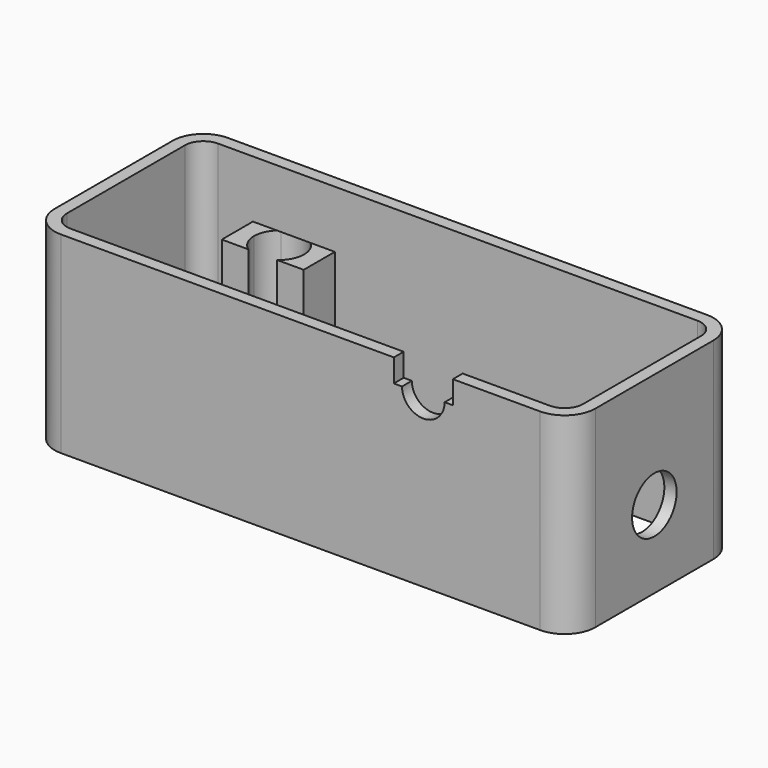
from build123d import *

# Parameters (mm, degrees)
PAD_DEPTH       = 23.5
SKETCH014_W     = 8
SKETCH014_H     = 0.8
POCKET001_DEPTH = 0.7
SKETCH015_W     = 5.25
SKETCH015_H     = 1
POCKET002_DEPTH = 0.5
SKETCH020_R     = 3.4
POCKET005_DEPTH = 1.5
POCKET006_DEPTH = 1.5
SKETCH025_R     = 3.1
POCKET008_DEPTH = 16.5
PAD015_DEPTH    = 15.75


with BuildPart() as part:
    # Sketch → Pad (new body)
    with BuildSketch(Plane.XY.offset(6)):
        with BuildLine():
            Line((-29.25, 12.75), (29.25, 12.75))
            ThreePointArc((33, 9), (31.9016504294, 11.6516504294), (29.25, 12.75))
            Line((33, 9), (33, -9))
            ThreePointArc((29.25, -12.75), (31.9016504295, -11.6516504294), (33, -9))
            Line((29.25, -12.75), (-29.25, -12.75))
            ThreePointArc((-33, -9), (-31.9016504294, -11.6516504295), (-29.25, -12.75))
            Line((-33, -9), (-33, 9))
            ThreePointArc((-29.25, 12.75), (-31.9016504294, 11.6516504294), (-33, 9))
        make_face()
        with BuildLine():
            Line((-29.25, 11.25), (29.25, 11.25))
            ThreePointArc((31.5, 9), (30.8409902577, 10.5909902577), (29.25, 11.25))
            Line((31.5, 9), (31.5, -9))
            ThreePointArc((29.25, -11.25), (30.8409902577, -10.5909902577), (31.5, -9))
            Line((29.25, -11.25), (-29.25, -11.25))
            ThreePointArc((-31.5, -9), (-30.8409902577, -10.5909902577), (-29.25, -11.25))
            Line((-31.5, -9), (-31.5, 9))
            ThreePointArc((-29.25, 11.25), (-30.8409902577, 10.5909902577), (-31.5, 9))
        make_face(mode=Mode.SUBTRACT)
    extrude(amount=-PAD_DEPTH)

    # Sketch014 → Pocket001 (cut)
    with BuildSketch(Plane(origin=(0, -11.25, 6), x_dir=(-1, 0, 0), z_dir=(0, 1, 0))):
        with Locations((0, -21.9)):
            Rectangle(SKETCH014_W, SKETCH014_H)
    extrude(amount=-POCKET001_DEPTH, mode=Mode.SUBTRACT)

    # Sketch015 → Pocket002 (cut)
    with BuildSketch(Plane(origin=(0, 11.25, 6), x_dir=(1, 0, 0), z_dir=(0, -1, 0))):
        with Locations((-10.475, -22.55)):
            Rectangle(SKETCH015_W, SKETCH015_H)
        with Locations((10.475, -22.55)):
            Rectangle(SKETCH015_W, SKETCH015_H)
    extrude(amount=-POCKET002_DEPTH, mode=Mode.SUBTRACT)

    # Sketch020 → Pocket005 (cut)
    with BuildSketch(Plane(origin=(33, 0, 6), x_dir=(0, 1, 0), z_dir=(1, 0, 0))):
        with Locations((0, -14)):
            Circle(SKETCH020_R)
    extrude(amount=-POCKET005_DEPTH, mode=Mode.SUBTRACT)

    # Sketch022 → Pocket006 (cut)
    with BuildSketch(Plane(origin=(0, -12.75, 6), x_dir=(1, 0, 0), z_dir=(0, -1, 0))):
        with BuildLine():
            ThreePointArc((12.4, -2.8), (15, -5.4), (17.6, -2.8))
            Line((17.6, -2.8), (18.6, -2.8))
            Line((18.6, -2.8), (18.6, 0.1))
            Line((11.4, 0.1), (18.6, 0.1))
            Line((11.4, -2.8), (11.4, 0.1))
            Line((12.4, -2.8), (11.4, -2.8))
        make_face()
    extrude(amount=-POCKET006_DEPTH, mode=Mode.SUBTRACT)

    # Sketch025 → Pocket008 (cut)
    with BuildSketch(Plane(origin=(0, 0, -17.5), x_dir=(1, 0, 0), z_dir=(0, 0, -1))):
        with Locations((-20, -9)):
            Circle(SKETCH025_R)
    extrude(amount=-POCKET008_DEPTH, mode=Mode.SUBTRACT)

    # Sketch026 → Pad015 (new body)
    with BuildSketch(Plane(origin=(0, 0, -1), x_dir=(1, 0, 0), z_dir=(0, 0, -1))):
        with BuildLine():
            Line((-15, -6.5), (-18.252859479, -6.5))
            ThreePointArc((-16.95, -9), (-17.2952561499, -7.5904395346), (-18.252859479, -6.5))
            ThreePointArc((-18.252859479, -11.5), (-17.2952561499, -10.4095604654), (-16.95, -9))
            Line((-18.252859479, -11.5), (-15, -11.5))
            Line((-15, -6.5), (-15, -11.5))
        make_face()
        with BuildLine():
            Line((-25, -11.5), (-21.747140521, -11.5))
            ThreePointArc((-23.05, -9), (-22.7047438501, -10.4095604654), (-21.747140521, -11.5))
            ThreePointArc((-21.747140521, -6.5), (-22.7047438501, -7.5904395346), (-23.05, -9))
            Line((-21.747140521, -6.5), (-25, -6.5))
            Line((-25, -6.5), (-25, -11.5))
        make_face()
    extrude(amount=PAD015_DEPTH)


solid = part.part
